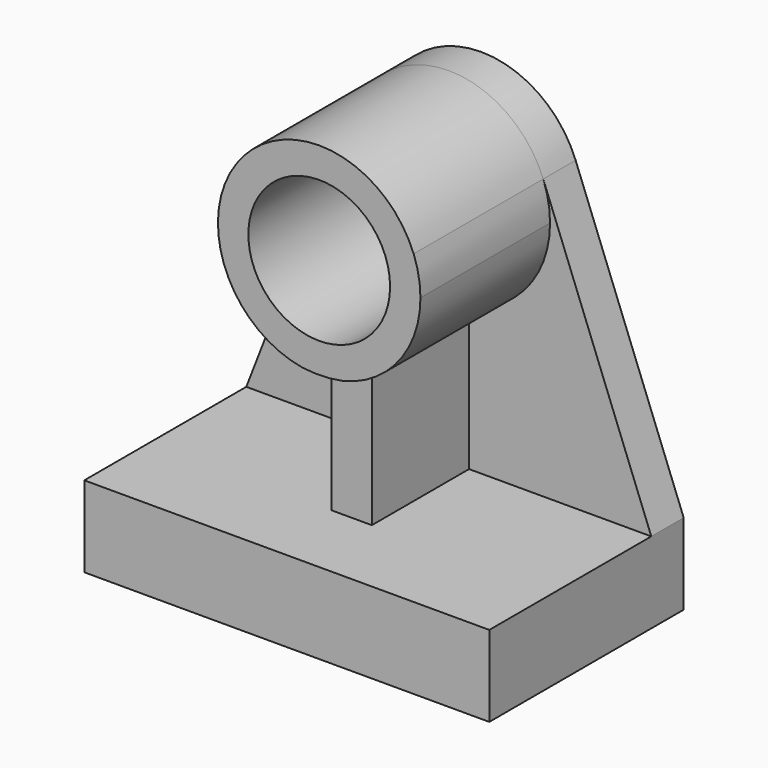
from build123d import *

# Parameters (mm, degrees)
F0_W     = 254
F0_H     = 50.8
F1_DEPTH = 152.4
F2_R     = 44.45
F3_DEPTH = 127
F4_DEPTH = 25.4
F6_DEPTH = 76.2


with BuildPart() as f1:
    # F0 (on Front) → F1 (new body)
    with BuildSketch(Plane.XZ):
        Rectangle(F0_W, F0_H)
    extrude(amount=F1_DEPTH)


with BuildPart() as f3:
    # F2 (on Front) → F3 (new body)
    with BuildSketch(Plane.XZ):
        with BuildLine():
            ThreePointArc((14.816667, 116.052803), (49.86536, 138.484662), (63.5, 177.8))
            ThreePointArc((63.5, 177.8), (62.4228, 189.446632), (59.227747, 200.698122))
            ThreePointArc((59.227747, 200.698122), (0, 241.3), (-59.227747, 200.698122))
            ThreePointArc((-59.227747, 200.698122), (-55.19407, 146.401518), (-10.583333, 115.188156))
            ThreePointArc((-10.583333, 115.188156), (2.152969, 114.554066), (14.816667, 116.052803))
        make_face()
        with Locations((0, 177.8)):
            Circle(F2_R, mode=Mode.SUBTRACT)
    extrude(amount=F3_DEPTH)


with BuildPart() as f4:
    # F2 (on Front) → F4 (new body)
    with BuildSketch(Plane.XZ):
        with BuildLine():
            ThreePointArc((14.816667, 116.052803), (49.86536, 138.484662), (63.5, 177.8))
            ThreePointArc((63.5, 177.8), (62.4228, 189.446632), (59.227747, 200.698122))
            ThreePointArc((59.227747, 200.698122), (0, 241.3), (-59.227747, 200.698122))
            ThreePointArc((-59.227747, 200.698122), (-55.19407, 146.401518), (-10.583333, 115.188156))
            ThreePointArc((-10.583333, 115.188156), (2.152969, 114.554066), (14.816667, 116.052803))
        make_face()
        with Locations((0, 177.8)):
            Circle(F2_R, mode=Mode.SUBTRACT)
        with BuildLine():
            ThreePointArc((59.227747, 200.698122), (62.4228, 189.446632), (63.5, 177.8))
            ThreePointArc((63.5, 177.8), (49.86536, 138.484662), (14.816667, 116.052803))
            Line((14.816667, 116.052803), (14.816667, 25.4))
            Line((14.816667, 25.4), (127, 25.4))
            Line((127, 25.4), (59.227747, 200.698122))
        make_face()
        with BuildLine():
            Line((14.816667, 25.4), (14.816667, 116.052803))
            ThreePointArc((14.816667, 116.052803), (2.160366, 114.33676), (-10.583333, 115.188156))
            Line((-10.583333, 115.188156), (-10.583333, 25.4))
            Line((-10.583333, 25.4), (14.816667, 25.4))
        make_face()
        with BuildLine():
            ThreePointArc((-10.583333, 115.188156), (-55.19407, 146.401518), (-59.227747, 200.698122))
            Line((-59.227747, 200.698122), (-127, 25.4))
            Line((-127, 25.4), (-10.583333, 25.4))
            Line((-10.583333, 25.4), (-10.583333, 115.188156))
        make_face()
    extrude(amount=F4_DEPTH)


with BuildPart() as f6:
    # F5 (on face) → F6 (new body)
    with BuildSketch(Plane.XZ.offset(25.4)):
        with BuildLine():
            Line((-12.7, 25.4), (12.7, 25.4))
            Line((12.7, 25.4), (12.7, 115.582961))
            ThreePointArc((12.7, 115.582961), (0, 116.648747), (-12.7, 115.582961))
            Line((-12.7, 115.582961), (-12.7, 25.4))
        make_face()
    extrude(amount=F6_DEPTH)


solid = Compound([f1.part, f3.part, f4.part, f6.part])
